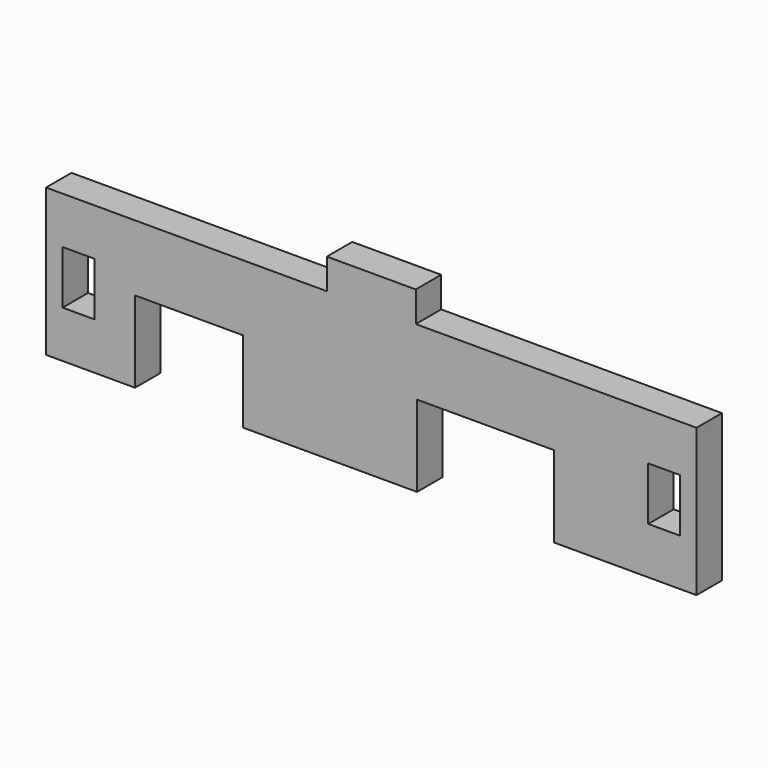
from build123d import *

# Parameters (mm, degrees)
F0_W     = 3.175
F0_H     = 5.334
F1_DEPTH = 3.175


with BuildPart() as f1:
    # F0 (on Front) → F1 (new body)
    with BuildSketch(Plane.XZ):
        Polygon((-32.512, 7.366), (-32.512, -7.366), (-23.622, -7.366), (-23.622, 0.762), (-12.827, 0.762), (-12.827, -7.366), (4.572, -7.366), (4.572, 0.762), (18.288, 0.762), (18.288, -7.366), (32.512, -7.366), (32.512, 7.366), (4.445, 7.366), (4.445, 10.414), (-4.445, 10.414), (-4.445, 7.366), align=None)
        with Locations((-29.2735, 0)):
            Rectangle(F0_W, F0_H, mode=Mode.SUBTRACT)
        with Locations((29.2735, 0)):
            Rectangle(F0_W, F0_H, mode=Mode.SUBTRACT)
    extrude(amount=F1_DEPTH)


solid = f1.part
